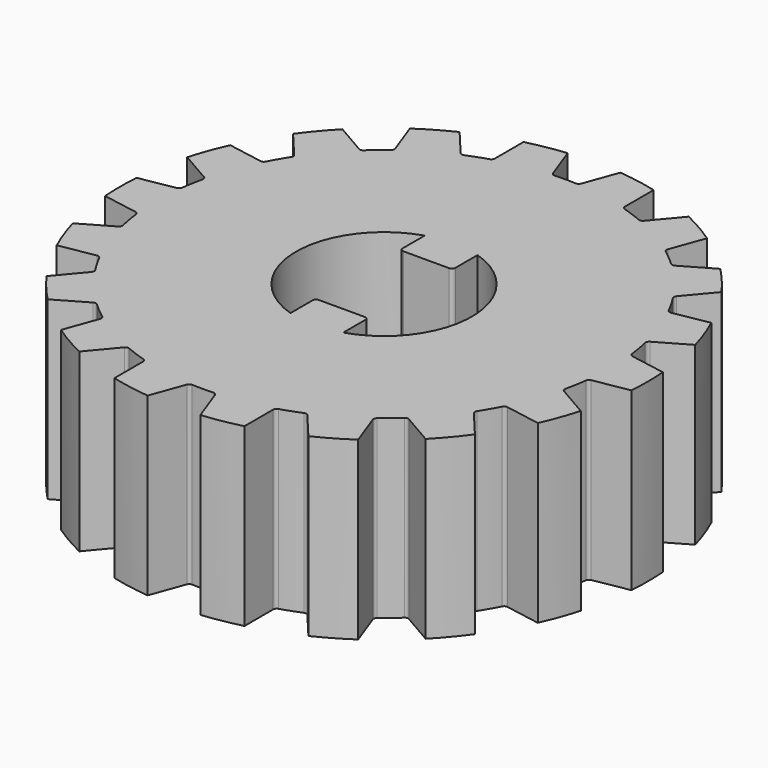
from build123d import *

# Parameters (mm, degrees)
F0_R     = 15
F1_DEPTH = 10
F3_DEPTH = 10.001
F4_COUNT = 18


with BuildPart() as f1:
    # F0 (on Top) → F1 (new body)
    with BuildSketch(Plane.XY):
        Circle(F0_R)
        with BuildLine():
            ThreePointArc((1.5, 4.7696960071), (5, 0), (1.5, -4.7696960071))
            Line((1.5, -4.7696960071), (1.5, -3.2))
            ThreePointArc((1.5, -3.2), (1.4414213562, -3.0585786438), (1.3, -3))
            Line((1.3, -3), (-1.3, -3))
            ThreePointArc((-1.3, -3), (-1.4414213562, -3.0585786438), (-1.5, -3.2))
            Line((-1.5, -3.2), (-1.5, -4.7696960071))
            ThreePointArc((-1.5, -4.7696960071), (-5, 0), (-1.5, 4.7696960071))
            Line((-1.5, 4.7696960071), (-1.5, 3.2))
            ThreePointArc((-1.5, 3.2), (-1.4414213562, 3.0585786438), (-1.3, 3))
            Line((-1.3, 3), (1.3, 3))
            ThreePointArc((1.3, 3), (1.4414213562, 3.0585786438), (1.5, 3.2))
            Line((1.5, 3.2), (1.5, 4.7696960071))
        make_face(mode=Mode.SUBTRACT)
    extrude(amount=F1_DEPTH)

    # F2 (on face) → F3 (cut, through all)
    with BuildSketch(Plane.XY.offset(10)):
        with BuildLine():
            ThreePointArc((0.6031215444, 12.8775082637), (0.7234998321, 12.9107243291), (0.8007100133, 13.0088712958))
            Line((0.8007100133, 13.0088712958), (1.4981238267, 14.925))
            ThreePointArc((1.4981238267, 14.925), (0, 15), (-1.4981238267, 14.925))
            Line((-1.4981238267, 14.925), (-0.8007100133, 13.0088712958))
            ThreePointArc((-0.8007100133, 13.0088712958), (-0.7234998321, 12.9107243291), (-0.6031215444, 12.8775082637))
            ThreePointArc((-0.6031215444, 12.8775082637), (0, 12.8920669658), (0.6031215444, 12.8775082637))
        make_face()
    f3 = extrude(amount=-F3_DEPTH, mode=Mode.SUBTRACT)

    # F4: F3 ×18 about axis
    f4_axis = Axis((0, 0, 0), (0, 0, -1))
    for i in range(1, F4_COUNT):
        add(f3.rotate(f4_axis, i * 360 / F4_COUNT), mode=Mode.SUBTRACT)


solid = f1.part
